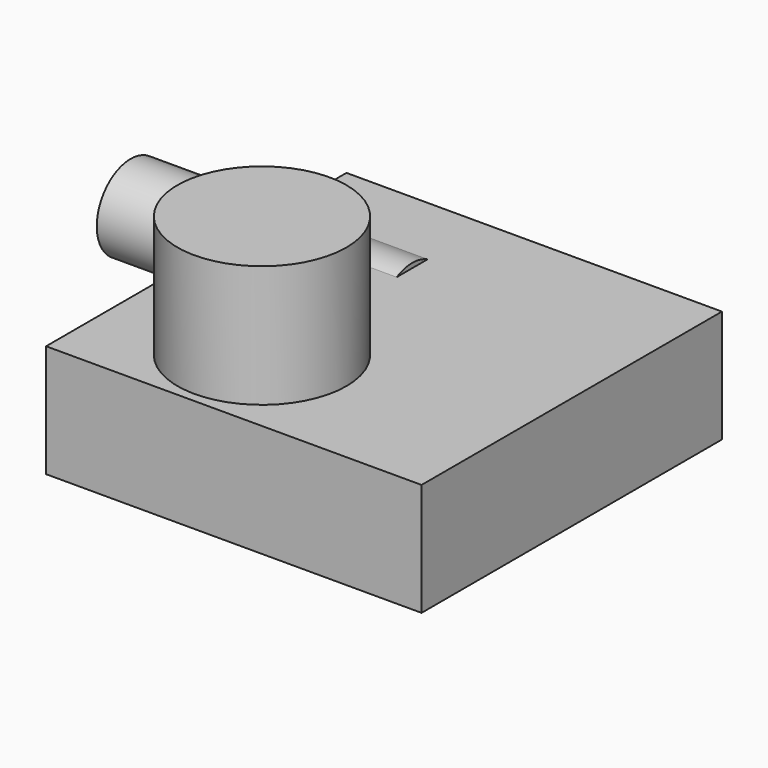
from build123d import *

# Parameters (mm, degrees)
SKETCH_W     = 40
SKETCH_H     = 40
PAD_DEPTH    = 12
SKETCH001_R  = 9
PAD001_DEPTH = 25
SKETCH002_R  = 4.5
PAD002_DEPTH = 15


with BuildPart() as part:
    # Sketch → Pad (new body)
    with BuildSketch(Plane.XY):
        with Locations((20, 20)):
            Rectangle(SKETCH_W, SKETCH_H)
    extrude(amount=PAD_DEPTH)

    # Sketch001 → Pad001 (join)
    with BuildSketch(Plane.XY):
        with Locations((15, 10)):
            Circle(SKETCH001_R)
    extrude(amount=PAD001_DEPTH)

    # Sketch002 → Pad002 (join, symmetric)
    with BuildSketch(Plane.YZ):
        with Locations((30, 8)):
            Circle(SKETCH002_R)
    extrude(amount=PAD002_DEPTH, both=True)


solid = part.part
